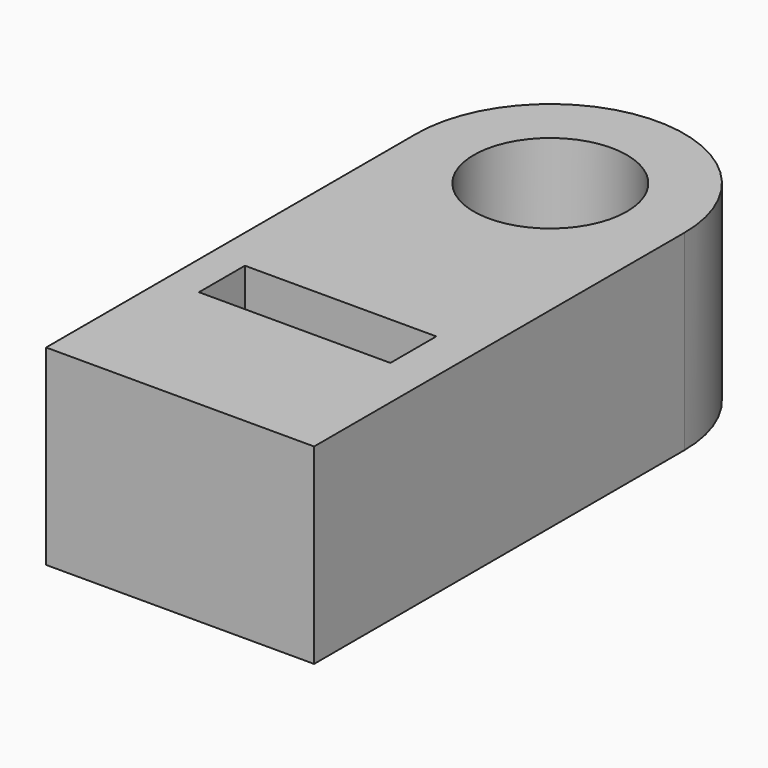
from build123d import *

# Parameters (mm, degrees)
F0_R     = 10
F0_W     = 25
F0_H     = 7.5
F1_DEPTH = 25


with BuildPart() as f1:
    # F0 (on Top) → F1 (new body)
    with BuildSketch(Plane.XY):
        with BuildLine():
            ThreePointArc((-17.5, 0), (0, -17.5), (17.5, 0))
            ThreePointArc((17.5, 0), (0, 17.5), (-17.5, 0))
        make_face()
        Circle(F0_R, mode=Mode.SUBTRACT)
        with BuildLine():
            Line((17.5, -60.43921), (17.5, 0))
            ThreePointArc((17.5, 0), (0, -17.5), (-17.5, 0))
            Line((-17.5, 0), (-17.5, -60.43921))
            Line((-17.5, -60.43921), (17.5, -60.43921))
        make_face()
        with Locations((-0.451259, -37.423272)):
            Rectangle(F0_W, F0_H, mode=Mode.SUBTRACT)
    extrude(amount=F1_DEPTH)


solid = f1.part
